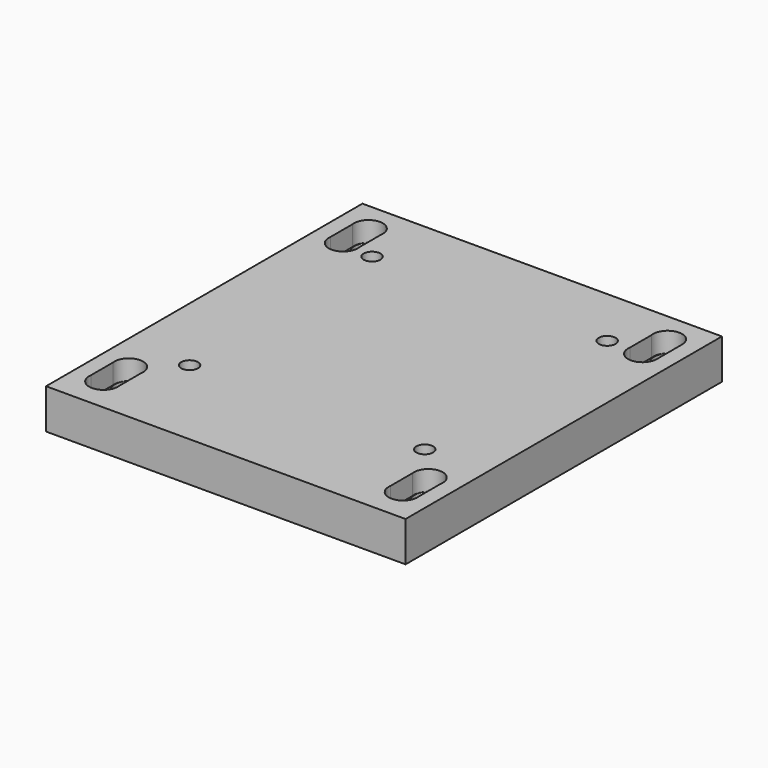
from build123d import *

# Parameters (mm, degrees)
F0_W     = 90
F0_H     = 9
F0_H_2   = 90
F0_R     = 2.5
F1_DEPTH = 10
F3_DEPTH = 5
F4_R     = 3.5
F4_R_2   = 2.5
F5_DEPTH = 25
F6_R     = 4
F6_R_2   = 2.1
F7_DEPTH = 4.5
F8_DEPTH = 25


with BuildPart() as f1:
    # F0 (on Top) → F1 (new body)
    with BuildSketch(Plane.XY):
        with Locations((0, -49.5)):
            Rectangle(F0_W, F0_H)
        Rectangle(F0_W, F0_H_2)
        with Locations((-37.5, -37.5)):
            Circle(F0_R, mode=Mode.SUBTRACT)
        with Locations((37.5, -37.5)):
            Circle(F0_R, mode=Mode.SUBTRACT)
        with Locations((-37.5, 37.5)):
            Circle(F0_R, mode=Mode.SUBTRACT)
        with Locations((37.5, 37.5)):
            Circle(F0_R, mode=Mode.SUBTRACT)
    extrude(amount=F1_DEPTH)

    # F2 (on face) → F3 (cut)
    with BuildSketch(Plane.XY.offset(10)):
        with BuildLine():
            Line((-33.9414238613, 30.1534489324), (-33.9414238613, 36.9554489324))
            ThreePointArc((-33.9414238613, 36.9554489324), (-37.5000142062, 41.1), (-41.0585718408, 36.9554208469))
            Line((-41.0585718408, 36.9554208469), (-41.0585718408, 30.153477018))
            ThreePointArc((-41.0585718408, 30.153477018), (-37.5000142062, 26.0088978648), (-33.9414238613, 30.1534489324))
        make_face()
        with BuildLine():
            Line((41.0578852383, 29.6284612117), (41.0578852383, 37.3796984459))
            ThreePointArc((41.0578852383, 37.3796984459), (37.2203682179, 41.0417420458), (33.8999927044, 36.9050517432))
            Line((33.8999927044, 36.9050517432), (33.8999927044, 30.1031079143))
            ThreePointArc((33.8999927044, 30.1031079143), (37.1506339605, 25.9717225558), (41.0578852383, 29.4885963107))
            Line((41.0578852383, 29.4885963107), (41.0578852383, 29.6284612117))
        make_face()
        with BuildLine():
            ThreePointArc((41.0578852383, 29.4885963107), (41.0585645452, 29.5585287612), (41.0578852383, 29.6284612117))
            Line((41.0578852383, 29.6284612117), (41.0578852383, 29.4885963107))
        make_face()
        with BuildLine():
            Line((-33.9414238613, -44.8465510676), (-33.9414238613, -38.0445510676))
            ThreePointArc((-33.9414238613, -38.0445510676), (-37.5000142062, -33.9), (-41.0585718408, -38.0445791531))
            Line((-41.0585718408, -38.0445791531), (-41.0585718408, -44.846522982))
            ThreePointArc((-41.0585718408, -44.846522982), (-37.5000142062, -48.9911021352), (-33.9414238613, -44.8465510676))
        make_face()
        with BuildLine():
            Line((41.0585761387, -44.8465510676), (41.0585761387, -38.0445510676))
            ThreePointArc((41.0585761387, -38.0445510676), (37.4999857938, -33.9), (33.9414281592, -38.0445791531))
            Line((33.9414281592, -38.0445791531), (33.9414281592, -44.846522982))
            ThreePointArc((33.9414281592, -44.846522982), (37.4999857938, -48.9911021352), (41.0585761387, -44.8465510676))
        make_face()
    extrude(amount=-F3_DEPTH, mode=Mode.SUBTRACT)

    # F4 (on face) → F5 (cut)
    with BuildSketch(Plane(origin=(0, 0, 0), x_dir=(1, 0, 0), z_dir=(0, 0, -1))):
        with Locations((-37.5, -37.5)):
            Circle(F4_R)
        with Locations((-37.5, -37.5)):
            Circle(F4_R_2, mode=Mode.SUBTRACT)
        with Locations((-37.5, 37.5)):
            Circle(F4_R)
        with Locations((-37.5, 37.5)):
            Circle(F4_R_2, mode=Mode.SUBTRACT)
        with Locations((37.5, 37.5)):
            Circle(F4_R)
        with Locations((37.5, 37.5)):
            Circle(F4_R_2, mode=Mode.SUBTRACT)
        with Locations((37.5, -37.5)):
            Circle(F4_R)
        with Locations((37.5, -37.5)):
            Circle(F4_R_2, mode=Mode.SUBTRACT)
    extrude(amount=-F5_DEPTH, mode=Mode.SUBTRACT)

    # F6 (on face) → F7 (cut)
    with BuildSketch(Plane(origin=(0, 0, 0), x_dir=(1, 0, 0), z_dir=(0, 0, -1))):
        with Locations((-29.51923199, -28.6538470536)):
            Circle(F6_R)
        with Locations((-29.51923199, -28.6538470536)):
            Circle(F6_R_2, mode=Mode.SUBTRACT)
        with Locations((28.6538470536, -29.51923199)):
            Circle(F6_R)
        with Locations((28.6538470536, -29.51923199)):
            Circle(F6_R_2, mode=Mode.SUBTRACT)
        with Locations((-28.6538470536, 29.51923199)):
            Circle(F6_R)
        with Locations((-28.6538470536, 29.51923199)):
            Circle(F6_R_2, mode=Mode.SUBTRACT)
        with Locations((29.51923199, 28.6538470536)):
            Circle(F6_R)
        with Locations((29.51923199, 28.6538470536)):
            Circle(F6_R_2, mode=Mode.SUBTRACT)
    extrude(amount=-F7_DEPTH, mode=Mode.SUBTRACT)

    # F8 (cut): faces of the model
    f8_faces = [f1.faces().sort_by_distance(p)[0] for p in [
        (-28.6538470536, -29.51923199, 0),
        (29.51923199, -28.6538470536, 0),
        (28.6538470536, 29.51923199, 0),
        (-29.51923199, 28.6538470536, 0),
    ]]
    extrude(f8_faces, amount=-F8_DEPTH, mode=Mode.SUBTRACT)


solid = f1.part
